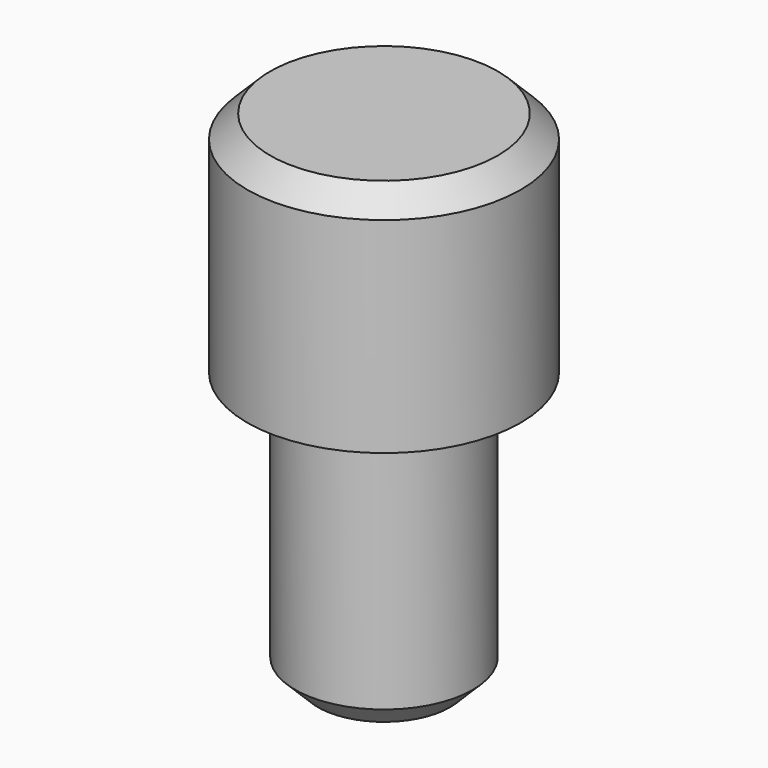
from build123d import *

# Parameters (mm, degrees)
F2_SIZE = 0.5


with BuildPart() as f1:
    # F0 (on Front) → F1 (revolve)
    with BuildSketch(Plane.XZ):
        Polygon((0, 0), (1.95, 0), (1.95, 6), (3, 6), (3, 11), (0, 11), align=None)
    revolve(axis=Axis((0, 0, 5.355328), (0, 0, -1)))

    # F2
    f2_edges = [f1.edges().sort_by_distance(p)[0] for p in [
        (-3, 0, 11),
        (-1.95, 0, 0),
    ]]
    chamfer(f2_edges, length=F2_SIZE)

    # F3 (on Front) → F4 (revolve, cut)
    with BuildSketch(Plane.XZ):
        Polygon((1.950481, 6), (2.505797, 6), (1.950481, 6.137104), align=None)
    revolve(axis=Axis((0, 0, 5.414517), (0, 0, -1)), mode=Mode.SUBTRACT)


solid = f1.part
